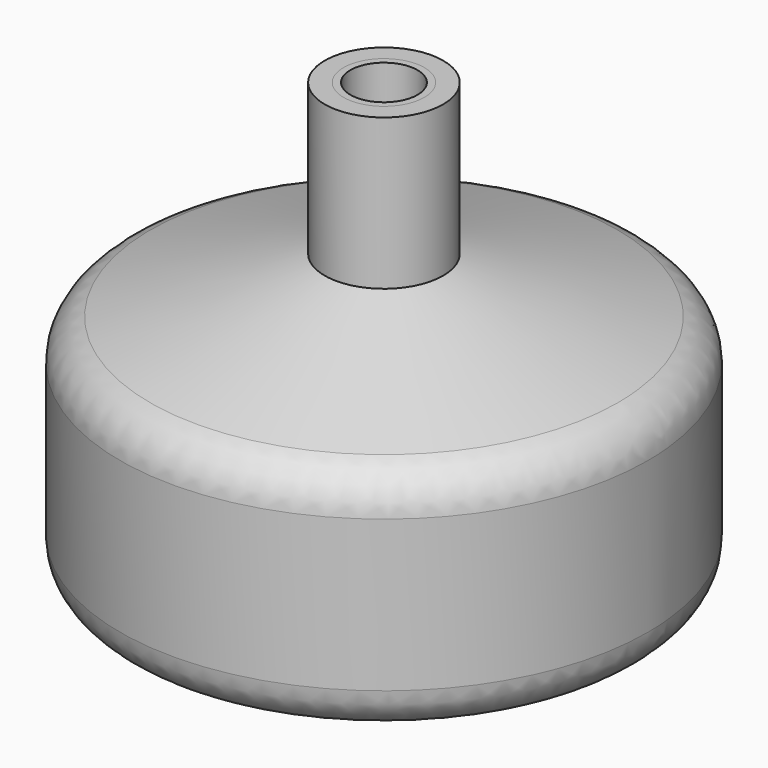
from build123d import *

# Parameters (mm, degrees)
F2_R      = 4.7625
F3_DEPTH  = 9.525
F4_R      = 1.5875
F5_DEPTH  = 9.525
F3_FACE_R = 4.7625
F6_DEPTH  = 9.525
F7_R      = 3.954416
F8_DEPTH  = 9.525
F5_FACE_R = 1.5875
F9_DEPTH  = 11.43
F10_R     = 5.08


with BuildPart() as f1:
    # F0 (on Front) → F1 (revolve)
    with BuildSketch(Plane.XZ):
        Polygon((3.81, 4.445), (31.115, 12.065), (31.115, 37.465), (6.985, 45.085), (6.985, 62.865), (0, 62.865), (0, 4.445), align=None)
    revolve(axis=Axis((0, 0, 33.655), (0, 0, -1)))

    # F2 (on face) → F3 (cut)
    with BuildSketch(Plane.XY.offset(62.865)):
        Circle(F2_R)
    extrude(amount=-F3_DEPTH, mode=Mode.SUBTRACT)

    # F4 (on face) → F5 (cut)
    with BuildSketch(Plane(origin=(0, 0, 4.445), x_dir=(1, 0, 0), z_dir=(0, 0, -1))):
        Circle(F4_R)
    extrude(amount=-F5_DEPTH, mode=Mode.SUBTRACT)

    # F10
    f10_edges = [f1.edges().sort_by_distance(p)[0] for p in [
        (-31.115, 0, 12.065),
        (-31.115, 0, 37.465),
        (31.115, 0, 24.765),
    ]]
    fillet(f10_edges, radius=F10_R)


with BuildPart() as f6:
    # F3_face (on face) → F6 (new body)
    with BuildSketch(Plane.XY.offset(53.34)):
        Circle(F3_FACE_R)
    extrude(amount=F6_DEPTH)

    # F7 (on face) → F8 (cut)
    with BuildSketch(Plane.XY.offset(62.865)):
        Circle(F7_R)
    extrude(amount=-F8_DEPTH, mode=Mode.SUBTRACT)


with BuildPart() as f9:
    # F5_face (on face) → F9 (new body)
    with BuildSketch(Plane(origin=(0, 0, 13.97), x_dir=(1, 0, 0), z_dir=(0, 0, -1))):
        Circle(F5_FACE_R)
    extrude(amount=F9_DEPTH)


solid = Compound([f1.part, f6.part, f9.part])
